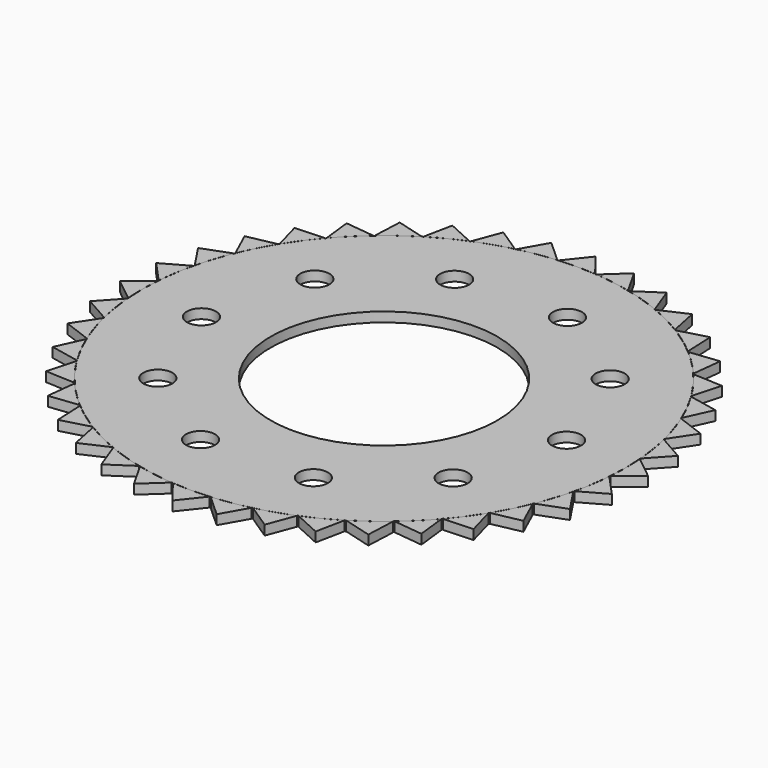
from build123d import *

# Parameters (mm, degrees)
F0_R      = 63.5
F1_DEPTH  = 1.27
F2_R      = 3.822596
F3_DEPTH  = 76.2
F4_COUNT  = 10
F7_DEPTH  = 2.54
F8_COUNT  = 40
F9_R      = 29.792692
F10_DEPTH = 2.54


with BuildPart() as f1:
    # F0 (on Top) → F1 (new body, symmetric)
    with BuildSketch(Plane.XY):
        Circle(F0_R)
    extrude(amount=F1_DEPTH, both=True)


with BuildPart() as f3:
    # F2 (on face) → F3 (new body)
    with BuildSketch(Plane.XY.offset(1.27)):
        with Locations((-38.669687, 25.633371)):
            Circle(F2_R)
    extrude(amount=-F3_DEPTH)


with BuildPart() as f4_1:
    # F4: instance of F3
    add(f3.part.rotate(Axis((0, 0, -1.27), (0, 0, 1)), 1 * 360 / F4_COUNT))


with BuildPart() as f4_2:
    # F4: instance of F3
    add(f3.part.rotate(Axis((0, 0, -1.27), (0, 0, 1)), 2 * 360 / F4_COUNT))


with BuildPart() as f4_3:
    # F4: instance of F3
    add(f3.part.rotate(Axis((0, 0, -1.27), (0, 0, 1)), 3 * 360 / F4_COUNT))


with BuildPart() as f4_4:
    # F4: instance of F3
    add(f3.part.rotate(Axis((0, 0, -1.27), (0, 0, 1)), 4 * 360 / F4_COUNT))


with BuildPart() as f4_5:
    # F4: instance of F3
    add(f3.part.rotate(Axis((0, 0, -1.27), (0, 0, 1)), 5 * 360 / F4_COUNT))


with BuildPart() as f4_6:
    # F4: instance of F3
    add(f3.part.rotate(Axis((0, 0, -1.27), (0, 0, 1)), 6 * 360 / F4_COUNT))


with BuildPart() as f4_7:
    # F4: instance of F3
    add(f3.part.rotate(Axis((0, 0, -1.27), (0, 0, 1)), 7 * 360 / F4_COUNT))


with BuildPart() as f4_8:
    # F4: instance of F3
    add(f3.part.rotate(Axis((0, 0, -1.27), (0, 0, 1)), 8 * 360 / F4_COUNT))


with BuildPart() as f4_9:
    # F4: instance of F3
    add(f3.part.rotate(Axis((0, 0, -1.27), (0, 0, 1)), 9 * 360 / F4_COUNT))


with BuildPart() as f1_1:
    add(f1.part)

    # F5: cut F3, F4_1, F4_2, F4_3, F4_4, F4_5, F4_6, F4_7, F4_8, F4_9
    add(f3.part, mode=Mode.SUBTRACT)
    add(f4_1.part, mode=Mode.SUBTRACT)
    add(f4_2.part, mode=Mode.SUBTRACT)
    add(f4_3.part, mode=Mode.SUBTRACT)
    add(f4_4.part, mode=Mode.SUBTRACT)
    add(f4_5.part, mode=Mode.SUBTRACT)
    add(f4_6.part, mode=Mode.SUBTRACT)
    add(f4_7.part, mode=Mode.SUBTRACT)
    add(f4_8.part, mode=Mode.SUBTRACT)
    add(f4_9.part, mode=Mode.SUBTRACT)

    # F9 (on face) → F10 (cut, through all)
    with BuildSketch(Plane(origin=(0, 0, -1.27), x_dir=(1, 0, 0), z_dir=(0, 0, -1))):
        Circle(F9_R)
    extrude(amount=-F10_DEPTH, mode=Mode.SUBTRACT)


with BuildPart() as f7:
    # F6 (on face) → F7 (new body, through all)
    with BuildSketch(Plane.XY.offset(1.27)):
        with BuildLine():
            Line((0, 69.386818), (-4.828833, 63.31613))
            ThreePointArc((-4.828833, 63.31613), (0, 63.5), (4.828833, 63.31613))
            Line((4.828833, 63.31613), (0, 69.386818))
        make_face()
    extrude(amount=-F7_DEPTH)


with BuildPart() as f8_1:
    # F8: instance of F7
    add(f7.part.rotate(Axis((0, 0, 1.27), (0, 0, 1)), 1 * 360 / F8_COUNT))


with BuildPart() as f8_2:
    # F8: instance of F7
    add(f7.part.rotate(Axis((0, 0, 1.27), (0, 0, 1)), 2 * 360 / F8_COUNT))


with BuildPart() as f8_3:
    # F8: instance of F7
    add(f7.part.rotate(Axis((0, 0, 1.27), (0, 0, 1)), 3 * 360 / F8_COUNT))


with BuildPart() as f8_4:
    # F8: instance of F7
    add(f7.part.rotate(Axis((0, 0, 1.27), (0, 0, 1)), 4 * 360 / F8_COUNT))


with BuildPart() as f8_5:
    # F8: instance of F7
    add(f7.part.rotate(Axis((0, 0, 1.27), (0, 0, 1)), 5 * 360 / F8_COUNT))


with BuildPart() as f8_6:
    # F8: instance of F7
    add(f7.part.rotate(Axis((0, 0, 1.27), (0, 0, 1)), 6 * 360 / F8_COUNT))


with BuildPart() as f8_7:
    # F8: instance of F7
    add(f7.part.rotate(Axis((0, 0, 1.27), (0, 0, 1)), 7 * 360 / F8_COUNT))


with BuildPart() as f8_8:
    # F8: instance of F7
    add(f7.part.rotate(Axis((0, 0, 1.27), (0, 0, 1)), 8 * 360 / F8_COUNT))


with BuildPart() as f8_9:
    # F8: instance of F7
    add(f7.part.rotate(Axis((0, 0, 1.27), (0, 0, 1)), 9 * 360 / F8_COUNT))


with BuildPart() as f8_10:
    # F8: instance of F7
    add(f7.part.rotate(Axis((0, 0, 1.27), (0, 0, 1)), 10 * 360 / F8_COUNT))


with BuildPart() as f8_11:
    # F8: instance of F7
    add(f7.part.rotate(Axis((0, 0, 1.27), (0, 0, 1)), 11 * 360 / F8_COUNT))


with BuildPart() as f8_12:
    # F8: instance of F7
    add(f7.part.rotate(Axis((0, 0, 1.27), (0, 0, 1)), 12 * 360 / F8_COUNT))


with BuildPart() as f8_13:
    # F8: instance of F7
    add(f7.part.rotate(Axis((0, 0, 1.27), (0, 0, 1)), 13 * 360 / F8_COUNT))


with BuildPart() as f8_14:
    # F8: instance of F7
    add(f7.part.rotate(Axis((0, 0, 1.27), (0, 0, 1)), 14 * 360 / F8_COUNT))


with BuildPart() as f8_15:
    # F8: instance of F7
    add(f7.part.rotate(Axis((0, 0, 1.27), (0, 0, 1)), 15 * 360 / F8_COUNT))


with BuildPart() as f8_16:
    # F8: instance of F7
    add(f7.part.rotate(Axis((0, 0, 1.27), (0, 0, 1)), 16 * 360 / F8_COUNT))


with BuildPart() as f8_17:
    # F8: instance of F7
    add(f7.part.rotate(Axis((0, 0, 1.27), (0, 0, 1)), 17 * 360 / F8_COUNT))


with BuildPart() as f8_18:
    # F8: instance of F7
    add(f7.part.rotate(Axis((0, 0, 1.27), (0, 0, 1)), 18 * 360 / F8_COUNT))


with BuildPart() as f8_19:
    # F8: instance of F7
    add(f7.part.rotate(Axis((0, 0, 1.27), (0, 0, 1)), 19 * 360 / F8_COUNT))


with BuildPart() as f8_20:
    # F8: instance of F7
    add(f7.part.rotate(Axis((0, 0, 1.27), (0, 0, 1)), 20 * 360 / F8_COUNT))


with BuildPart() as f8_21:
    # F8: instance of F7
    add(f7.part.rotate(Axis((0, 0, 1.27), (0, 0, 1)), 21 * 360 / F8_COUNT))


with BuildPart() as f8_22:
    # F8: instance of F7
    add(f7.part.rotate(Axis((0, 0, 1.27), (0, 0, 1)), 22 * 360 / F8_COUNT))


with BuildPart() as f8_23:
    # F8: instance of F7
    add(f7.part.rotate(Axis((0, 0, 1.27), (0, 0, 1)), 23 * 360 / F8_COUNT))


with BuildPart() as f8_24:
    # F8: instance of F7
    add(f7.part.rotate(Axis((0, 0, 1.27), (0, 0, 1)), 24 * 360 / F8_COUNT))


with BuildPart() as f8_25:
    # F8: instance of F7
    add(f7.part.rotate(Axis((0, 0, 1.27), (0, 0, 1)), 25 * 360 / F8_COUNT))


with BuildPart() as f8_26:
    # F8: instance of F7
    add(f7.part.rotate(Axis((0, 0, 1.27), (0, 0, 1)), 26 * 360 / F8_COUNT))


with BuildPart() as f8_27:
    # F8: instance of F7
    add(f7.part.rotate(Axis((0, 0, 1.27), (0, 0, 1)), 27 * 360 / F8_COUNT))


with BuildPart() as f8_28:
    # F8: instance of F7
    add(f7.part.rotate(Axis((0, 0, 1.27), (0, 0, 1)), 28 * 360 / F8_COUNT))


with BuildPart() as f8_29:
    # F8: instance of F7
    add(f7.part.rotate(Axis((0, 0, 1.27), (0, 0, 1)), 29 * 360 / F8_COUNT))


with BuildPart() as f8_30:
    # F8: instance of F7
    add(f7.part.rotate(Axis((0, 0, 1.27), (0, 0, 1)), 30 * 360 / F8_COUNT))


with BuildPart() as f8_31:
    # F8: instance of F7
    add(f7.part.rotate(Axis((0, 0, 1.27), (0, 0, 1)), 31 * 360 / F8_COUNT))


with BuildPart() as f8_32:
    # F8: instance of F7
    add(f7.part.rotate(Axis((0, 0, 1.27), (0, 0, 1)), 32 * 360 / F8_COUNT))


with BuildPart() as f8_33:
    # F8: instance of F7
    add(f7.part.rotate(Axis((0, 0, 1.27), (0, 0, 1)), 33 * 360 / F8_COUNT))


with BuildPart() as f8_34:
    # F8: instance of F7
    add(f7.part.rotate(Axis((0, 0, 1.27), (0, 0, 1)), 34 * 360 / F8_COUNT))


with BuildPart() as f8_35:
    # F8: instance of F7
    add(f7.part.rotate(Axis((0, 0, 1.27), (0, 0, 1)), 35 * 360 / F8_COUNT))


with BuildPart() as f8_36:
    # F8: instance of F7
    add(f7.part.rotate(Axis((0, 0, 1.27), (0, 0, 1)), 36 * 360 / F8_COUNT))


with BuildPart() as f8_37:
    # F8: instance of F7
    add(f7.part.rotate(Axis((0, 0, 1.27), (0, 0, 1)), 37 * 360 / F8_COUNT))


with BuildPart() as f8_38:
    # F8: instance of F7
    add(f7.part.rotate(Axis((0, 0, 1.27), (0, 0, 1)), 38 * 360 / F8_COUNT))


with BuildPart() as f8_39:
    # F8: instance of F7
    add(f7.part.rotate(Axis((0, 0, 1.27), (0, 0, 1)), 39 * 360 / F8_COUNT))


solid = Compound([f1_1.part, f7.part, f8_1.part, f8_2.part, f8_3.part, f8_4.part, f8_5.part, f8_6.part, f8_7.part, f8_8.part, f8_9.part, f8_10.part, f8_11.part, f8_12.part, f8_13.part, f8_14.part, f8_15.part, f8_16.part, f8_17.part, f8_18.part, f8_19.part, f8_20.part, f8_21.part, f8_22.part, f8_23.part, f8_24.part, f8_25.part, f8_26.part, f8_27.part, f8_28.part, f8_29.part, f8_30.part, f8_31.part, f8_32.part, f8_33.part, f8_34.part, f8_35.part, f8_36.part, f8_37.part, f8_38.part, f8_39.part])
